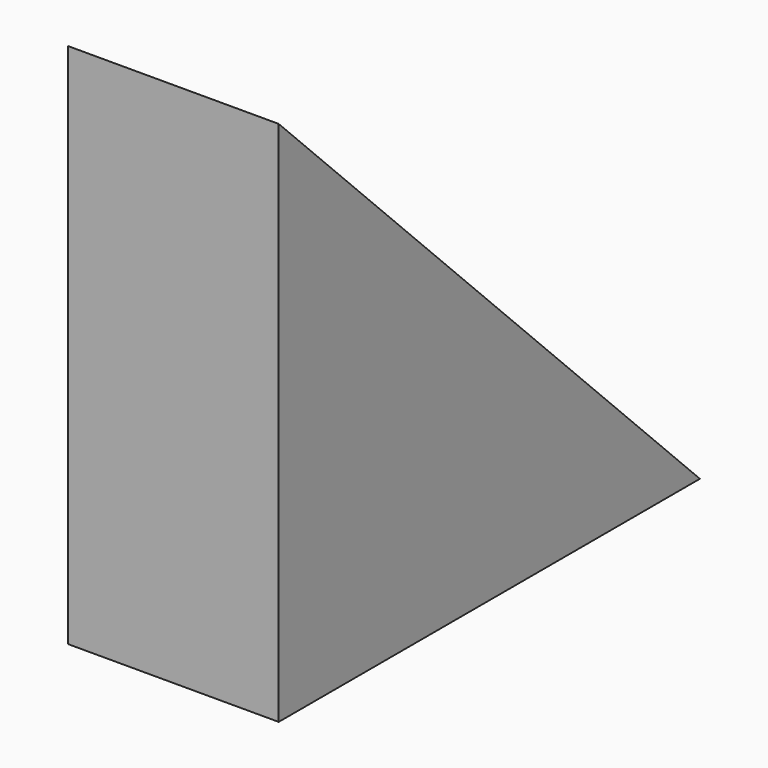
from build123d import *

# Parameters (mm, degrees)
F1_DEPTH = 12


with BuildPart() as f1:
    # F0 (on Right) → F1 (new body)
    with BuildSketch(Plane.YZ):
        Polygon((30, 0), (0, 30), (0, 0), align=None)
    extrude(amount=-F1_DEPTH)


solid = f1.part
